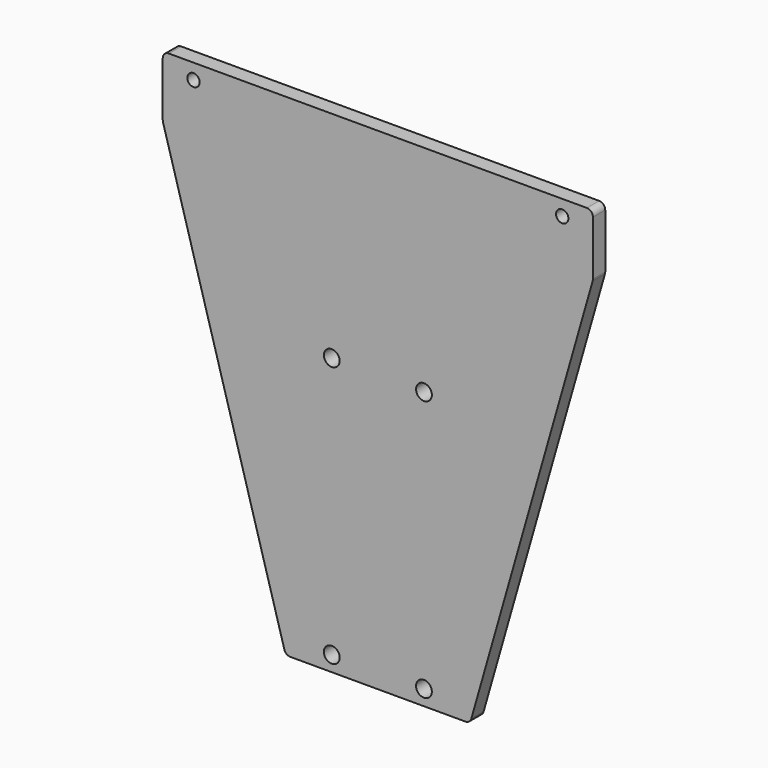
from build123d import *

# Parameters (mm, degrees)
F0_R     = 3.2639
F0_R_2   = 2.5527
F1_DEPTH = 6.35


with BuildPart() as f1:
    # F0 (on Front) → F1 (new body)
    with BuildSketch(Plane.XZ):
        with BuildLine():
            Line((175.26, 0), (2.54, 0))
            ThreePointArc((2.54, 0), (0.743949, -0.743949), (0, -2.54))
            Line((0, -2.54), (0, -25.04426))
            ThreePointArc((0, -25.04426), (0.024551, -25.396562), (0.097729, -25.742052))
            Line((0.097729, -25.742052), (50.273655, -201.357792))
            ThreePointArc((50.273655, -201.357792), (51.186349, -202.687806), (52.715926, -203.2))
            Line((52.715926, -203.2), (125.084074, -203.2))
            ThreePointArc((125.084074, -203.2), (126.613651, -202.687806), (127.526345, -201.357792))
            Line((127.526345, -201.357792), (177.702271, -25.742052))
            ThreePointArc((177.702271, -25.742052), (177.775449, -25.396562), (177.8, -25.04426))
            Line((177.8, -25.04426), (177.8, -2.54))
            ThreePointArc((177.8, -2.54), (177.056051, -0.743949), (175.26, 0))
        make_face()
        with Locations((69.85, -196.85)):
            Circle(F0_R, mode=Mode.SUBTRACT)
        with Locations((107.95, -196.85)):
            Circle(F0_R, mode=Mode.SUBTRACT)
        with Locations((69.85, -88.9)):
            Circle(F0_R, mode=Mode.SUBTRACT)
        with Locations((12.7, -6.35)):
            Circle(F0_R_2, mode=Mode.SUBTRACT)
        with Locations((107.95, -88.9)):
            Circle(F0_R, mode=Mode.SUBTRACT)
        with Locations((165.1, -6.35)):
            Circle(F0_R_2, mode=Mode.SUBTRACT)
    extrude(amount=F1_DEPTH)


solid = f1.part
